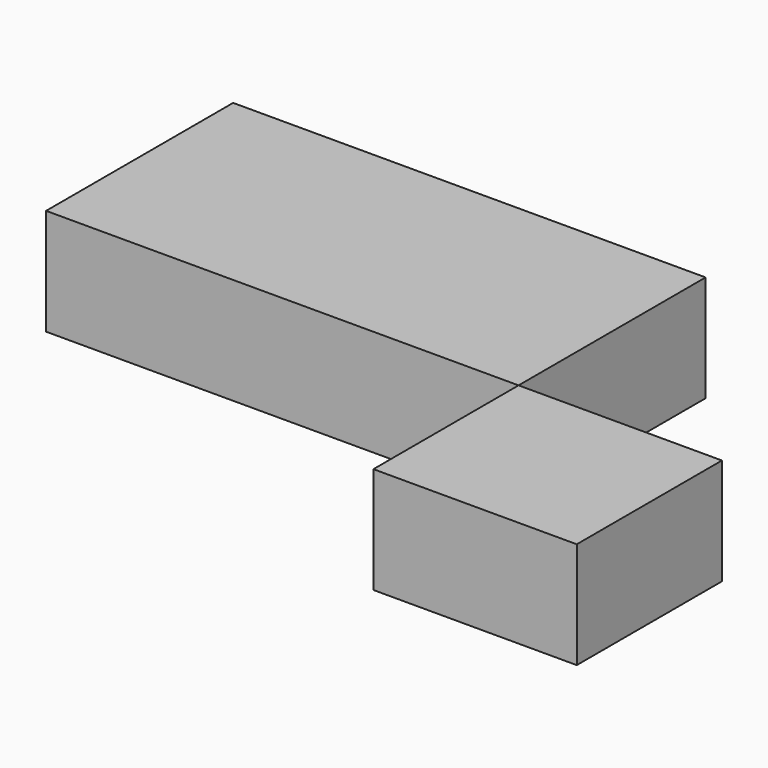
from build123d import *

# Parameters (mm, degrees)
F0_W     = 119.889030233
F0_H     = 59.3265332282
F1_DEPTH = 27
F0_W_2   = 51.6017209738
F0_H_2   = 46.0398606956


with BuildPart() as f1:
    # F0 (on Top) → F1 (new body)
    with BuildSketch(Plane.XY):
        with Locations((-40.3235061094, 5.4073687643)):
            Rectangle(F0_W, F0_H)
    extrude(amount=F1_DEPTH)


with BuildPart() as f1b:
    # F0 (on Top) → F1, piece 2 (new body)
    with BuildSketch(Plane.XY):
        with Locations((45.421869494, -47.2758281976)):
            Rectangle(F0_W_2, F0_H_2)
    extrude(amount=F1_DEPTH)


solid = Compound([f1.part, f1b.part])
